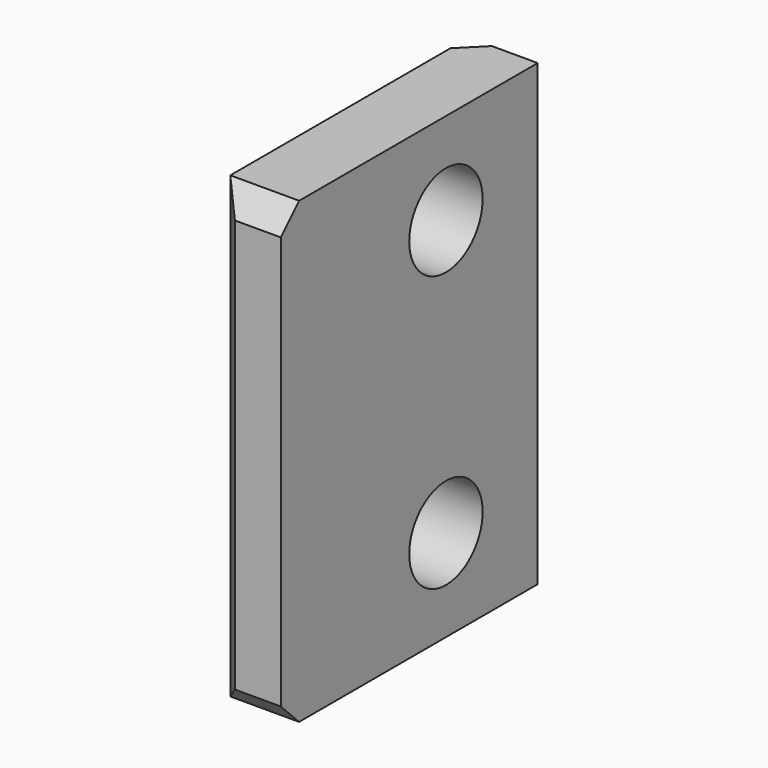
from build123d import *

# Parameters (mm, degrees)
CYLINDER053_R          = 2
CYLINDER053_DEPTH      = 10
CYLINDER054_R          = 2
CYLINDER054_DEPTH      = 10
BOX014_W               = 14
BOX014_H               = 3
BOX014_DEPTH           = 20
BOX014_PLACEMENT_ANGLE = -90
CHAMFER015_SIZE        = 1
CHAMFER017_SIZE        = 1


with BuildPart() as cilindro050:
    # Cylinder053 → Cylinder053 (new body)
    with BuildSketch(Plane(origin=(63, -53, 25), x_dir=(0, -1, 0), z_dir=(-1, 0, 0))):
        Circle(CYLINDER053_R)
    extrude(amount=CYLINDER053_DEPTH)


with BuildPart() as fusion013:
    # Cylinder054 → Cylinder054 (new body)
    with BuildSketch(Plane(origin=(63, -53, 37), x_dir=(0, -1, 0), z_dir=(-1, 0, 0))):
        Circle(CYLINDER054_R)
    extrude(amount=CYLINDER054_DEPTH)

    # Fusion013: union Cilindro050
    add(cilindro050.part)


with BuildPart() as obj1:
    # Box014 → Box014 (new body)
    with BuildSketch(Plane.XY):
        with Locations((7, 1.5)):
            Rectangle(BOX014_W, BOX014_H)
    extrude(amount=BOX014_DEPTH)


with BuildPart() as obj1_1:
    # Box014 placement: moved
    add(obj1.part.moved(Location((55, -48, 21))).rotate(Axis((55, -48, 21), (0, 0, 1)), BOX014_PLACEMENT_ANGLE))

    # Cut041: cut Fusion013
    add(fusion013.part, mode=Mode.SUBTRACT)


with BuildPart() as obj1_2:
    # Cut041 placement: moved
    add(obj1_1.part.moved(Location((-7, 0, 0))))

    # Chamfer015
    chamfer015_edges = [obj1_2.edges().sort_by_distance(p)[0] for p in [
        (49.5, -62, 41),
        (49.5, -62, 21),
    ]]
    chamfer(chamfer015_edges, length=CHAMFER015_SIZE)

    # Chamfer017
    chamfer017_edges = [obj1_2.edges().sort_by_distance(p)[0] for p in [
        (48, -48, 31),
        (48, -62, 31),
    ]]
    chamfer(chamfer017_edges, length=CHAMFER017_SIZE)


solid = obj1_2.part
